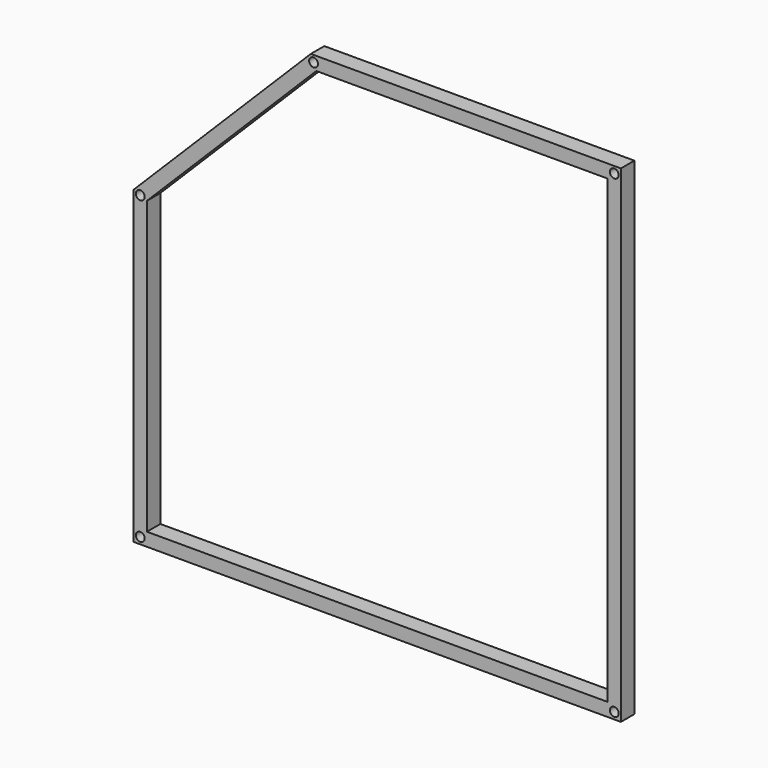
from build123d import *

# Parameters (mm, degrees)
F0_R     = 5
F1_DEPTH = 9.5


with BuildPart() as f1:
    # F0 (on Front) → F1 (new body, symmetric)
    with BuildSketch(Plane.XZ):
        Polygon((-275, 75), (-275, -275), (275, -275), (275, 275), (-75, 275), align=None)
        with Locations((-267.5, -267.5)):
            Circle(F0_R, mode=Mode.SUBTRACT)
        with Locations((267.5, -267.5)):
            Circle(F0_R, mode=Mode.SUBTRACT)
        with Locations((-267.5, 71.8933982822)):
            Circle(F0_R, mode=Mode.SUBTRACT)
        with Locations((-71.8933982822, 267.5)):
            Circle(F0_R, mode=Mode.SUBTRACT)
        Polygon((260, -260), (-260, -260), (-260, 68.7867965644), (-68.7867965644, 260), (-35, 260), (260, 260), (260, 130), (260, -35), align=None, mode=Mode.SUBTRACT)
        with Locations((267.5, 267.5)):
            Circle(F0_R, mode=Mode.SUBTRACT)
    extrude(amount=F1_DEPTH, both=True)


solid = f1.part
